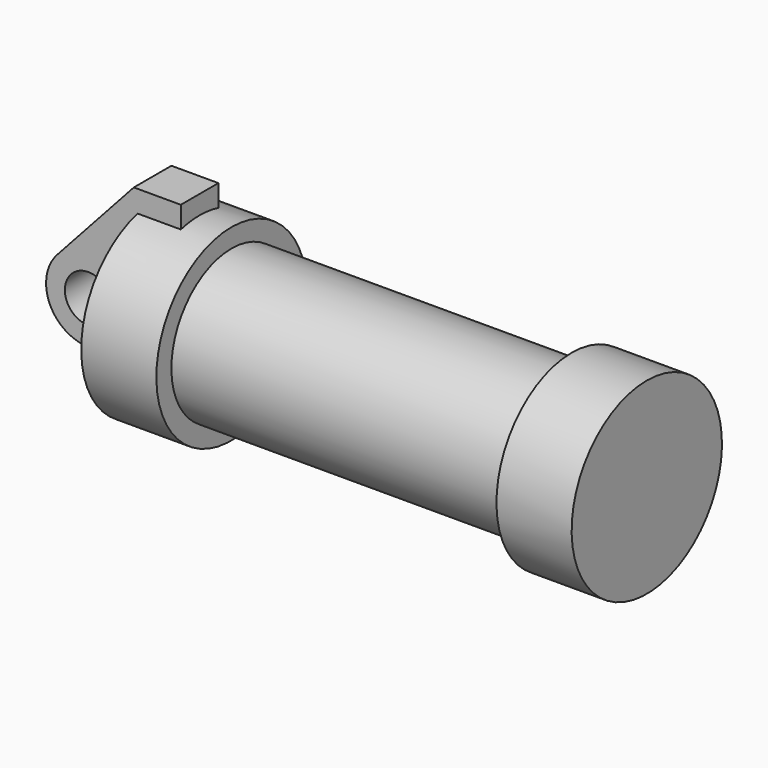
from build123d import *

# Parameters (mm, degrees)
F0_W     = 5.842
F0_H     = 12.7
F0_R     = 3.175
F2_DEPTH = 3.175


with BuildPart() as f1:
    # F0 (on Front) → F1 (revolve)
    with BuildSketch(Plane.XZ):
        with Locations((2.921, 6.35)):
            Rectangle(F0_W, F0_H)
        Polygon((5.842, 12.7), (5.842, 0), (66.294, 0), (66.294, 12.7), (56.134, 12.7), (56.134, 10.16), (10.16, 10.16), (10.16, 12.7), align=None)
    revolve(axis=Axis((33.147, 0, 0), (-1, 0, 0)))

    # F0 (on Front) → F2 (join, symmetric)
    with BuildSketch(Plane.XZ):
        with BuildLine():
            Line((-0.9398, 0), (0, 0))
            Line((0, 0), (0, 12.7))
            Line((0, 12.7), (5.842, 12.7))
            Line((5.842, 12.7), (5.842, 15.24))
            Line((5.842, 15.24), (-0.508, 15.24))
            Line((-0.508, 15.24), (-10.88063, 3.847543))
            ThreePointArc((-10.88063, 3.847543), (-4.591961, 5.329721), (-0.9398, 0))
        make_face()
        with BuildLine():
            ThreePointArc((-8.182663, -5.506983), (-3.195791, -4.549339), (-0.9398, 0))
            ThreePointArc((-0.9398, 0), (-4.591961, 5.329721), (-10.88063, 3.847543))
            ThreePointArc((-10.88063, 3.847543), (-12.145978, -1.583727), (-8.182663, -5.506983))
        make_face()
        with Locations((-6.6548, 0)):
            Circle(F0_R, mode=Mode.SUBTRACT)
        with BuildLine():
            Line((0, -7.777189), (0, 0))
            Line((0, 0), (-0.9398, 0))
            ThreePointArc((-0.9398, 0), (-3.195791, -4.549339), (-8.182663, -5.506983))
            Line((-8.182663, -5.506983), (0, -7.777189))
        make_face()
        with Locations((2.921, 6.35)):
            Rectangle(F0_W, F0_H)
        Polygon((5.842, 0), (0, 0), (0, -7.777189), (5.842, -9.398), align=None)
    extrude(amount=F2_DEPTH, both=True)


solid = f1.part
